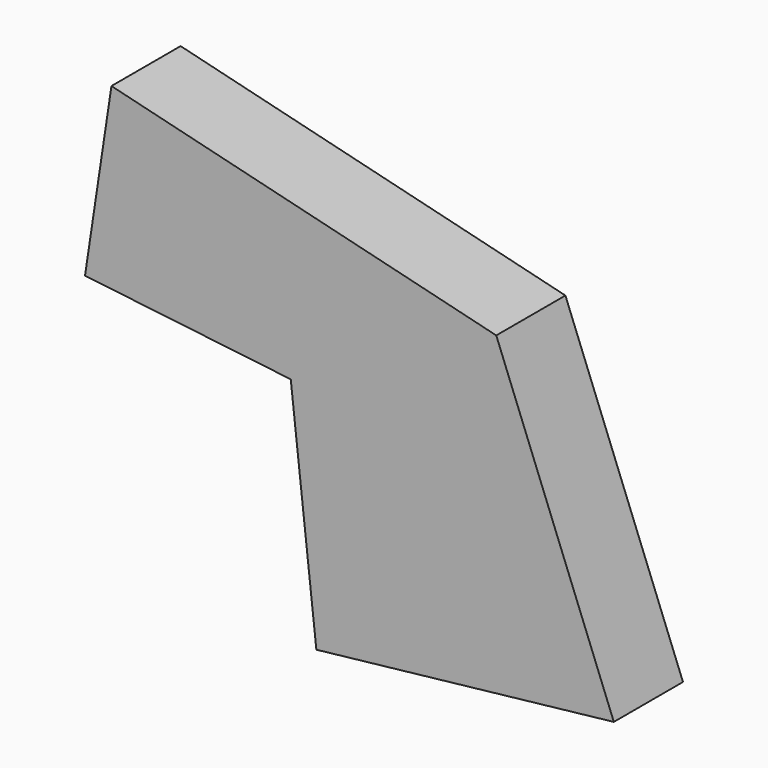
from build123d import *

# Parameters (mm, degrees)
F1_DEPTH = 12.954
F2_R     = 10.50497
F3_DEPTH = 10.668


with BuildPart() as f1:
    # F0 (on Front) → F1 (new body)
    with BuildSketch(Plane.XZ):
        Polygon((22.575585, 17.971164), (-35.091735, 32.122731), (-39.053906, 5.805923), (-8.221038, 2.165531), (-4.384858, -32.257307), (40.195391, -27.289156), align=None)
    extrude(amount=-F1_DEPTH)

    # F2 (on face) → F3 (join)
    with BuildSketch(Plane(origin=(0, 12.954, 0), x_dir=(-1, 0, 0), z_dir=(0, 1, 0))):
        with Locations((-14.078603, 2.165531)):
            Circle(F2_R)
    extrude(amount=-F3_DEPTH)


solid = f1.part
